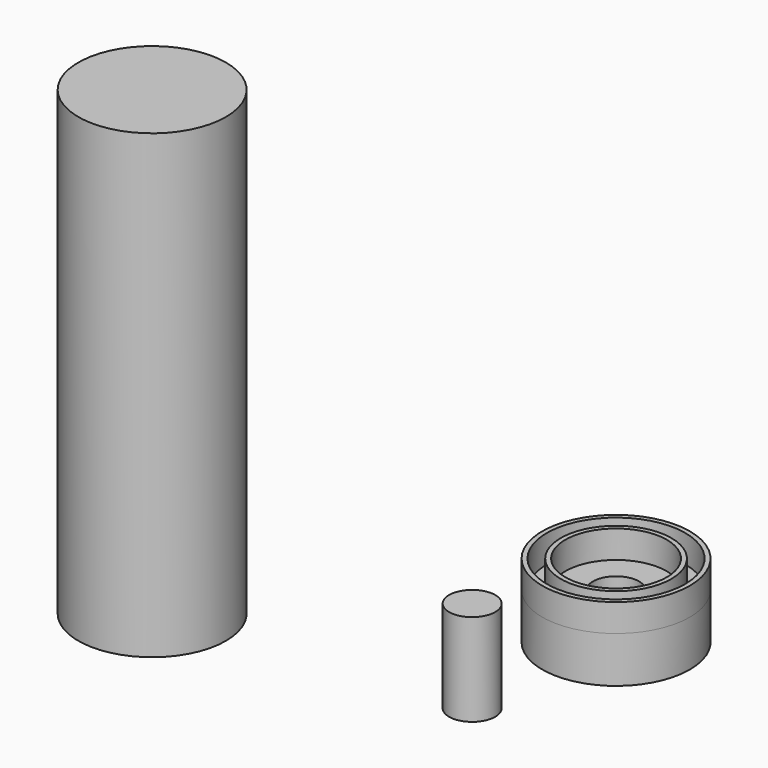
from build123d import *

# Parameters (mm, degrees)
F0_R     = 8
F1_DEPTH = 50
F2_R     = 8
F2_R_2   = 7.5
F2_R_3   = 6
F2_R_4   = 5.5
F2_R_5   = 2.5
F3_DEPTH = 5
F4_DEPTH = 3
F5_DEPTH = 2
F6_R     = 2.5
F7_DEPTH = 10


with BuildPart() as f1:
    # F0 (on Top) → F1 (new body)
    with BuildSketch(Plane.XY):
        with Locations((-46.4382022619, 32.9955667257)):
            Circle(F0_R)
    extrude(amount=F1_DEPTH)


with BuildPart() as f3:
    # F2 (on Top) → F3 (new body)
    with BuildSketch(Plane.XY):
        with Locations((-18.4862352908, 60.9209723771)):
            Circle(F2_R)
        with Locations((-18.4862352908, 60.9209723771)):
            Circle(F2_R_2, mode=Mode.SUBTRACT)
        with Locations((-18.4862352908, 60.9209723771)):
            Circle(F2_R_2)
        with Locations((-18.4862352908, 60.9209723771)):
            Circle(F2_R_3, mode=Mode.SUBTRACT)
        with Locations((-18.4862352908, 60.9209723771)):
            Circle(F2_R_3)
        with Locations((-18.4862352908, 60.9209723771)):
            Circle(F2_R_4, mode=Mode.SUBTRACT)
        with Locations((-18.4862352908, 60.9209723771)):
            Circle(F2_R_4)
        with Locations((-18.4862352908, 60.9209723771)):
            Circle(F2_R_5, mode=Mode.SUBTRACT)
        with Locations((-18.4862352908, 60.9209723771)):
            Circle(F2_R_5)
    extrude(amount=-F3_DEPTH)

    # F2 (on Top) → F4 (join)
    with BuildSketch(Plane.XY):
        with Locations((-18.4862352908, 60.9209723771)):
            Circle(F2_R)
        with Locations((-18.4862352908, 60.9209723771)):
            Circle(F2_R_2, mode=Mode.SUBTRACT)
        with Locations((-18.4862352908, 60.9209723771)):
            Circle(F2_R_3)
        with Locations((-18.4862352908, 60.9209723771)):
            Circle(F2_R_4, mode=Mode.SUBTRACT)
    extrude(amount=F4_DEPTH)

    # F2 (on Top) → F5 (cut)
    with BuildSketch(Plane.XY):
        with Locations((-18.4862352908, 60.9209723771)):
            Circle(F2_R_5)
    extrude(amount=-F5_DEPTH, mode=Mode.SUBTRACT)


with BuildPart() as f7:
    # F6 (on Top) → F7 (new body)
    with BuildSketch(Plane.XY):
        with Locations((-14.4413039088, 36.3667160273)):
            Circle(F6_R)
    extrude(amount=F7_DEPTH)


solid = Compound([f1.part, f3.part, f7.part])
